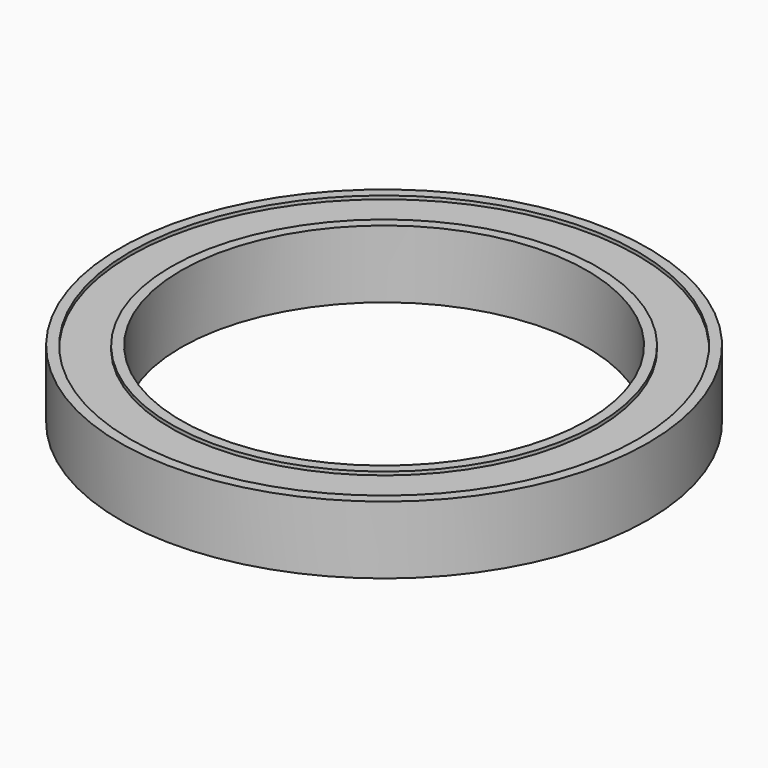
from build123d import *

# Parameters (mm, degrees)
SKETCH_R        = 39
SKETCH_R_2      = 30
PAD006_DEPTH    = 10
SKETCH008_R     = 37.5
SKETCH008_R_2   = 31.5
POCKET002_DEPTH = 0.5
SKETCH009_R     = 37.5
SKETCH009_R_2   = 31.5
POCKET003_DEPTH = 0.5


with BuildPart() as part:
    # Sketch → Pad006 (new body)
    with BuildSketch(Plane.XY):
        Circle(SKETCH_R)
        Circle(SKETCH_R_2, mode=Mode.SUBTRACT)
    extrude(amount=PAD006_DEPTH)

    # Sketch008 → Pocket002 (cut)
    with BuildSketch(Plane.XY.offset(10)):
        Circle(SKETCH008_R)
        Circle(SKETCH008_R_2, mode=Mode.SUBTRACT)
    extrude(amount=-POCKET002_DEPTH, mode=Mode.SUBTRACT)

    # Sketch009 → Pocket003 (cut)
    with BuildSketch(Plane.XY):
        Circle(SKETCH009_R)
        Circle(SKETCH009_R_2, mode=Mode.SUBTRACT)
    extrude(amount=POCKET003_DEPTH, mode=Mode.SUBTRACT)


solid = part.part
